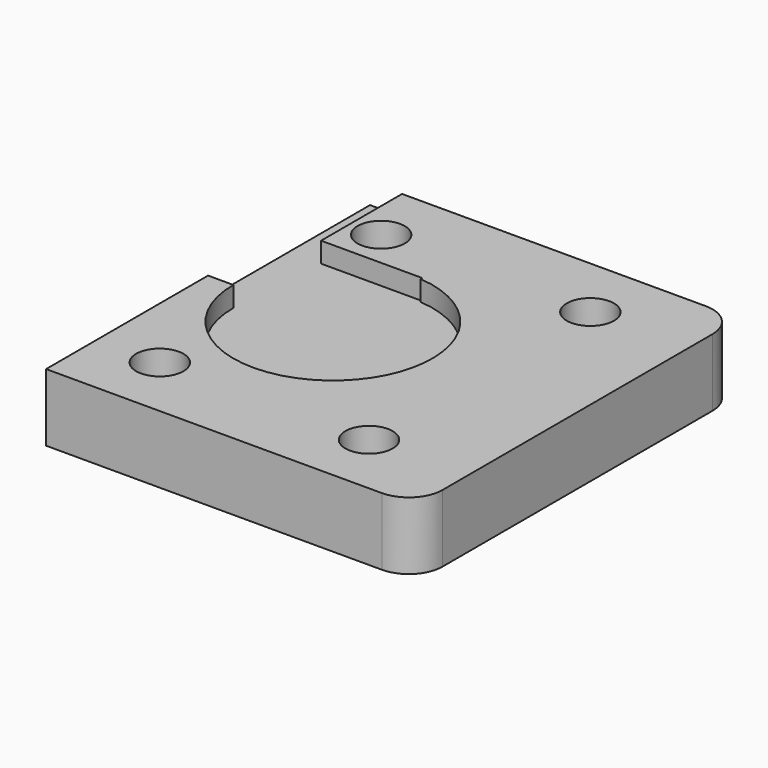
from build123d import *

# Parameters (mm, degrees)
SKETCH051_W         = 21.9
SKETCH051_H         = 24
PAD014_DEPTH        = 4
SKETCH052_R         = 5.9
POCKET015_DEPTH     = 1.2
SKETCH053_W         = 16
SKETCH053_H         = 6
SKETCH053_W_2       = 4
POCKET016_DEPTH     = 1.2
HOLE022_D           = 2.8
HOLE022_DEPTH       = 25
HOLE022_CBORE_D     = 6
HOLE022_CBORE_DEPTH = 2
FILLET027_R         = 2


with BuildPart() as part:
    # Sketch051 → Pad014 (new body)
    with BuildSketch(Plane.XY):
        with Locations((11.05, 0)):
            Rectangle(SKETCH051_W, SKETCH051_H)
    extrude(amount=PAD014_DEPTH)

    # Sketch052 (on Face6 of Pad014) → Pocket015 (cut)
    with BuildSketch(Plane.XY.offset(4)):
        with Locations((7.5, 0)):
            Circle(SKETCH052_R)
    pocket015 = extrude(amount=-POCKET015_DEPTH, mode=Mode.SUBTRACT)

    # Mirrored025: Pocket015 across Sketch052 V_Axis
    add(pocket015.mirror(Plane(origin=(0, 0, 4), x_dir=(0, 0, 1), z_dir=(1, 0, 0))), mode=Mode.SUBTRACT)

    # Sketch053 (on Face5 of Mirrored025) → Pocket016 (cut)
    with BuildSketch(Plane.XY.offset(4)):
        with Locations((0, 3)):
            Rectangle(SKETCH053_W, SKETCH053_H)
        with Locations((0, 9)):
            Rectangle(SKETCH053_W_2, SKETCH053_H)
    extrude(amount=-POCKET016_DEPTH, mode=Mode.SUBTRACT)

    # Hole022
    with Locations(Plane(origin=(0, 0, 0), x_dir=(1, 0, 0), z_dir=(0, 0, -1))):
        with Locations((16.2, 8.2), (16.2, -8.2), (3.8, 8.2), (3.8, -8.2)):
            hole022 = CounterBoreHole(HOLE022_D / 2, HOLE022_CBORE_D / 2, HOLE022_CBORE_DEPTH, depth=HOLE022_DEPTH)

    # Mirrored026: Hole022 across Sketch054 V_Axis
    add(hole022.mirror(Plane(origin=(0, 0, 0), x_dir=(0, 0, -1), z_dir=(1, 0, 0))), mode=Mode.SUBTRACT)

    # Fillet027
    fillet027_edges = [part.edges().sort_by_distance(p)[0] for p in [
        (22, 12, 2),
        (22, -12, 2),
    ]]
    fillet(fillet027_edges, radius=FILLET027_R)


solid = part.part
